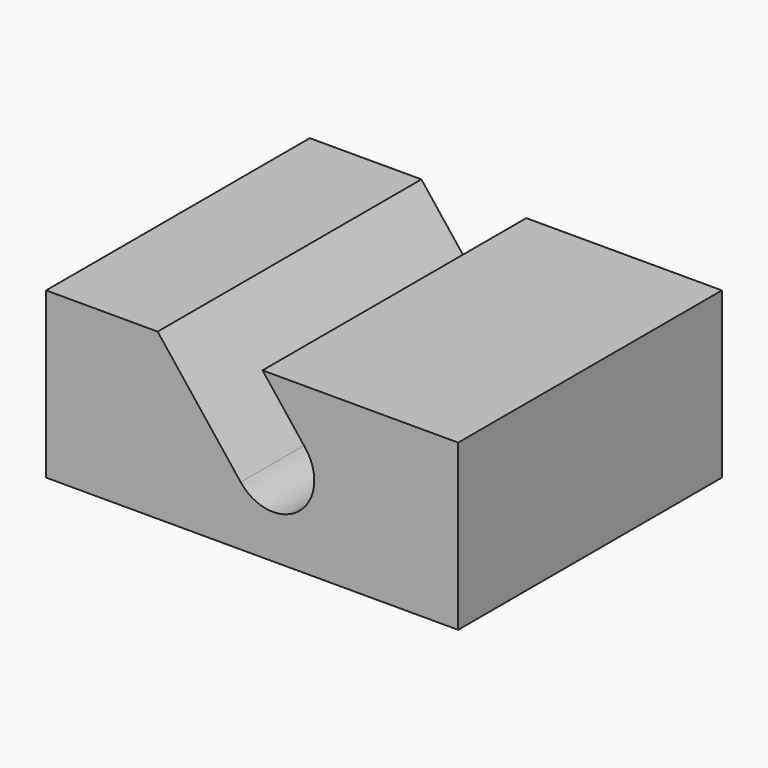
from build123d import *

# Parameters (mm, degrees)
F0_W     = 63.5
F0_H     = 50.8
F1_DEPTH = 25.4
F3_DEPTH = 50.801


with BuildPart() as f1:
    # F0 (on Top) → F1 (new body)
    with BuildSketch(Plane.XY):
        with Locations((31.75, 0)):
            Rectangle(F0_W, F0_H)
    extrude(amount=F1_DEPTH)

    # F2 (on face) → F3 (cut, through all)
    with BuildSketch(Plane.XZ.offset(25.4)):
        with BuildLine():
            Line((17.193763, 25.4), (29.989508, 9.13562))
            ThreePointArc((29.989508, 9.13562), (38.906469, 8.071286), (39.970803, 16.988247))
            Line((39.970803, 16.988247), (33.352988, 25.4))
            Line((33.352988, 25.4), (17.193763, 25.4))
        make_face()
    extrude(amount=-F3_DEPTH, mode=Mode.SUBTRACT)


solid = f1.part
